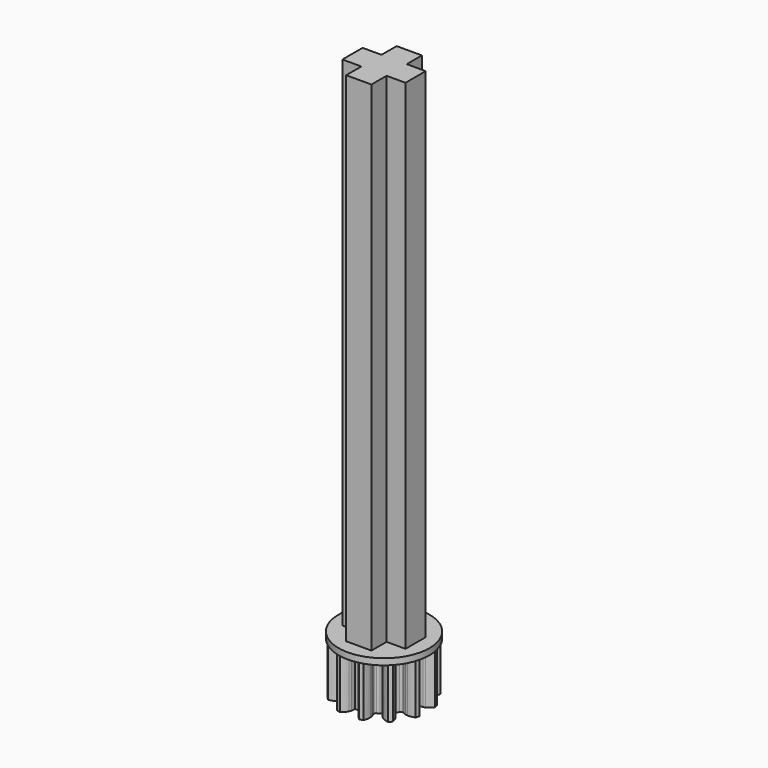
from build123d import *

# Parameters (mm, degrees)
CYLINDER002_R              = 3.6
CYLINDER002_DEPTH          = 0.5
EXTRUDE001_DEPTH           = 4
EXTRUDE001_PLACEMENT_ANGLE = 345
BOX001_W                   = 5
BOX001_H                   = 2
BOX001_DEPTH               = 44
BOX_W                      = 2
BOX_H                      = 5
BOX_DEPTH                  = 44


with BuildPart() as cylinder002:
    # Cylinder002 → Cylinder002 (new body)
    with BuildSketch(Plane(origin=(5, 0, 4), x_dir=(1, 0, 0), z_dir=(0, 0, 1))):
        Circle(CYLINDER002_R)
    extrude(amount=CYLINDER002_DEPTH)


with BuildPart() as fusion001:
    # InvoluteGear001 → Extrude001 (new body)
    with BuildSketch(Plane.XY):
        with BuildLine():
            Line((2.528514, -0.371303), (2.797114, -0.410332))
            add(Edge.make_bspline(
                [(2.797114, -0.410332), (2.817791, -0.411804), (2.879869, -0.41318), (2.984231, -0.389418)],
                knots=[0, 0, 0, 0, 1, 1, 1, 1], degree=3))
            add(Edge.make_bspline(
                [(2.984231, -0.389418), (3.108457, -0.360405), (3.285345, -0.29598), (3.497257, -0.154878)],
                knots=[0, 0, 0, 0, 1, 1, 1, 1], degree=3))
            ThreePointArc((3.497257, -0.154878), (3.500685, 0), (3.497257, 0.154878))
            add(Edge.make_bspline(
                [(3.497257, 0.154878), (3.285345, 0.29598), (3.108457, 0.360405), (2.984231, 0.389418)],
                knots=[0, 0, 0, 0, 1, 1, 1, 1], degree=3))
            add(Edge.make_bspline(
                [(2.984231, 0.389418), (2.879869, 0.41318), (2.817791, 0.411804), (2.797114, 0.410332)],
                knots=[0, 0, 0, 0, 1, 1, 1, 1], degree=3))
            Line((2.797114, 0.410332), (2.528514, 0.371303))
            ThreePointArc((2.528514, 0.371303), (2.395133, 0.402247), (2.318354, 0.515617))
            ThreePointArc((2.318354, 0.515617), (2.294074, 0.614695), (2.265562, 0.712639))
            ThreePointArc((2.265562, 0.712639), (2.27537, 0.849211), (2.375409, 0.9427))
            Line((2.375409, 0.9427), (2.627538, 1.043199))
            add(Edge.make_bspline(
                [(2.627538, 1.043199), (2.646181, 1.052262), (2.700629, 1.08211), (2.779129, 1.154869)],
                knots=[0, 0, 0, 0, 1, 1, 1, 1], degree=3))
            add(Edge.make_bspline(
                [(2.779129, 1.154869), (2.872205, 1.242109), (2.993182, 1.386346), (3.106152, 1.6145)],
                knots=[0, 0, 0, 0, 1, 1, 1, 1], degree=3))
            ThreePointArc((3.106152, 1.6145), (3.031682, 1.750343), (2.951274, 1.882757))
            add(Edge.make_bspline(
                [(2.951274, 1.882757), (2.697202, 1.898999), (2.5118, 1.866348), (2.389711, 1.829362)],
                knots=[0, 0, 0, 0, 1, 1, 1, 1], degree=3))
            add(Edge.make_bspline(
                [(2.389711, 1.829362), (2.28745, 1.797759), (2.234376, 1.765528), (2.217206, 1.753915)],
                knots=[0, 0, 0, 0, 1, 1, 1, 1], degree=3))
            Line((2.217206, 1.753915), (2.004106, 1.585815))
            ThreePointArc((2.004106, 1.585815), (1.873123, 1.545922), (1.749945, 1.605714))
            ThreePointArc((1.749945, 1.605714), (1.679379, 1.679379), (1.605714, 1.749945))
            ThreePointArc((1.605714, 1.749945), (1.545922, 1.873123), (1.585815, 2.004106))
            Line((1.585815, 2.004106), (1.753915, 2.217206))
            add(Edge.make_bspline(
                [(1.753915, 2.217206), (1.765528, 2.234376), (1.797759, 2.28745), (1.829362, 2.389711)],
                knots=[0, 0, 0, 0, 1, 1, 1, 1], degree=3))
            add(Edge.make_bspline(
                [(1.829362, 2.389711), (1.866348, 2.5118), (1.898999, 2.697202), (1.882757, 2.951274)],
                knots=[0, 0, 0, 0, 1, 1, 1, 1], degree=3))
            ThreePointArc((1.882757, 2.951274), (1.750343, 3.031682), (1.6145, 3.106152))
            add(Edge.make_bspline(
                [(1.6145, 3.106152), (1.386346, 2.993182), (1.242109, 2.872205), (1.154869, 2.779129)],
                knots=[0, 0, 0, 0, 1, 1, 1, 1], degree=3))
            add(Edge.make_bspline(
                [(1.154869, 2.779129), (1.08211, 2.700629), (1.052262, 2.646181), (1.043199, 2.627538)],
                knots=[0, 0, 0, 0, 1, 1, 1, 1], degree=3))
            Line((1.043199, 2.627538), (0.9427, 2.375409))
            ThreePointArc((0.9427, 2.375409), (0.849211, 2.27537), (0.712639, 2.265562))
            ThreePointArc((0.712639, 2.265562), (0.614695, 2.294074), (0.515617, 2.318354))
            ThreePointArc((0.515617, 2.318354), (0.402247, 2.395133), (0.371303, 2.528514))
            Line((0.371303, 2.528514), (0.410332, 2.797114))
            add(Edge.make_bspline(
                [(0.410332, 2.797114), (0.411804, 2.817791), (0.41318, 2.879869), (0.389418, 2.984231)],
                knots=[0, 0, 0, 0, 1, 1, 1, 1], degree=3))
            add(Edge.make_bspline(
                [(0.389418, 2.984231), (0.360405, 3.108457), (0.29598, 3.285345), (0.154878, 3.497257)],
                knots=[0, 0, 0, 0, 1, 1, 1, 1], degree=3))
            ThreePointArc((0.154878, 3.497257), (0, 3.500685), (-0.154878, 3.497257))
            add(Edge.make_bspline(
                [(-0.154878, 3.497257), (-0.29598, 3.285345), (-0.360405, 3.108457), (-0.389418, 2.984231)],
                knots=[0, 0, 0, 0, 1, 1, 1, 1], degree=3))
            add(Edge.make_bspline(
                [(-0.389418, 2.984231), (-0.41318, 2.879869), (-0.411804, 2.817791), (-0.410332, 2.797114)],
                knots=[0, 0, 0, 0, 1, 1, 1, 1], degree=3))
            Line((-0.410332, 2.797114), (-0.371303, 2.528514))
            ThreePointArc((-0.371303, 2.528514), (-0.402247, 2.395133), (-0.515617, 2.318354))
            ThreePointArc((-0.515617, 2.318354), (-0.614695, 2.294074), (-0.712639, 2.265562))
            ThreePointArc((-0.712639, 2.265562), (-0.849211, 2.27537), (-0.9427, 2.375409))
            Line((-0.9427, 2.375409), (-1.043199, 2.627538))
            add(Edge.make_bspline(
                [(-1.043199, 2.627538), (-1.052262, 2.646181), (-1.08211, 2.700629), (-1.154869, 2.779129)],
                knots=[0, 0, 0, 0, 1, 1, 1, 1], degree=3))
            add(Edge.make_bspline(
                [(-1.154869, 2.779129), (-1.242109, 2.872205), (-1.386346, 2.993182), (-1.6145, 3.106152)],
                knots=[0, 0, 0, 0, 1, 1, 1, 1], degree=3))
            ThreePointArc((-1.6145, 3.106152), (-1.750343, 3.031682), (-1.882757, 2.951274))
            add(Edge.make_bspline(
                [(-1.882757, 2.951274), (-1.898999, 2.697202), (-1.866348, 2.5118), (-1.829362, 2.389711)],
                knots=[0, 0, 0, 0, 1, 1, 1, 1], degree=3))
            add(Edge.make_bspline(
                [(-1.829362, 2.389711), (-1.797759, 2.28745), (-1.765528, 2.234376), (-1.753915, 2.217206)],
                knots=[0, 0, 0, 0, 1, 1, 1, 1], degree=3))
            Line((-1.753915, 2.217206), (-1.585815, 2.004106))
            ThreePointArc((-1.585815, 2.004106), (-1.545922, 1.873123), (-1.605714, 1.749945))
            ThreePointArc((-1.605714, 1.749945), (-1.679379, 1.679379), (-1.749945, 1.605714))
            ThreePointArc((-1.749945, 1.605714), (-1.873123, 1.545922), (-2.004106, 1.585815))
            Line((-2.004106, 1.585815), (-2.217206, 1.753915))
            add(Edge.make_bspline(
                [(-2.217206, 1.753915), (-2.234376, 1.765528), (-2.28745, 1.797759), (-2.389711, 1.829362)],
                knots=[0, 0, 0, 0, 1, 1, 1, 1], degree=3))
            add(Edge.make_bspline(
                [(-2.389711, 1.829362), (-2.5118, 1.866348), (-2.697202, 1.898999), (-2.951274, 1.882757)],
                knots=[0, 0, 0, 0, 1, 1, 1, 1], degree=3))
            ThreePointArc((-2.951274, 1.882757), (-3.031682, 1.750343), (-3.106152, 1.6145))
            add(Edge.make_bspline(
                [(-3.106152, 1.6145), (-2.993182, 1.386346), (-2.872205, 1.242109), (-2.779129, 1.154869)],
                knots=[0, 0, 0, 0, 1, 1, 1, 1], degree=3))
            add(Edge.make_bspline(
                [(-2.779129, 1.154869), (-2.700629, 1.08211), (-2.646181, 1.052262), (-2.627538, 1.043199)],
                knots=[0, 0, 0, 0, 1, 1, 1, 1], degree=3))
            Line((-2.627538, 1.043199), (-2.375409, 0.9427))
            ThreePointArc((-2.375409, 0.9427), (-2.27537, 0.849211), (-2.265562, 0.712639))
            ThreePointArc((-2.265562, 0.712639), (-2.294074, 0.614695), (-2.318354, 0.515617))
            ThreePointArc((-2.318354, 0.515617), (-2.395133, 0.402247), (-2.528514, 0.371303))
            Line((-2.528514, 0.371303), (-2.797114, 0.410332))
            add(Edge.make_bspline(
                [(-2.797114, 0.410332), (-2.817791, 0.411804), (-2.879869, 0.41318), (-2.984231, 0.389418)],
                knots=[0, 0, 0, 0, 1, 1, 1, 1], degree=3))
            add(Edge.make_bspline(
                [(-2.984231, 0.389418), (-3.108457, 0.360405), (-3.285345, 0.29598), (-3.497257, 0.154878)],
                knots=[0, 0, 0, 0, 1, 1, 1, 1], degree=3))
            ThreePointArc((-3.497257, 0.154878), (-3.500685, 0), (-3.497257, -0.154878))
            add(Edge.make_bspline(
                [(-3.497257, -0.154878), (-3.285345, -0.29598), (-3.108457, -0.360405), (-2.984231, -0.389418)],
                knots=[0, 0, 0, 0, 1, 1, 1, 1], degree=3))
            add(Edge.make_bspline(
                [(-2.984231, -0.389418), (-2.879869, -0.41318), (-2.817791, -0.411804), (-2.797114, -0.410332)],
                knots=[0, 0, 0, 0, 1, 1, 1, 1], degree=3))
            Line((-2.797114, -0.410332), (-2.528514, -0.371303))
            ThreePointArc((-2.528514, -0.371303), (-2.395133, -0.402247), (-2.318354, -0.515617))
            ThreePointArc((-2.318354, -0.515617), (-2.294074, -0.614695), (-2.265562, -0.712639))
            ThreePointArc((-2.265562, -0.712639), (-2.27537, -0.849211), (-2.375409, -0.9427))
            Line((-2.375409, -0.9427), (-2.627538, -1.043199))
            add(Edge.make_bspline(
                [(-2.627538, -1.043199), (-2.646181, -1.052262), (-2.700629, -1.08211), (-2.779129, -1.154869)],
                knots=[0, 0, 0, 0, 1, 1, 1, 1], degree=3))
            add(Edge.make_bspline(
                [(-2.779129, -1.154869), (-2.872205, -1.242109), (-2.993182, -1.386346), (-3.106152, -1.6145)],
                knots=[0, 0, 0, 0, 1, 1, 1, 1], degree=3))
            ThreePointArc((-3.106152, -1.6145), (-3.031682, -1.750343), (-2.951274, -1.882757))
            add(Edge.make_bspline(
                [(-2.951274, -1.882757), (-2.697202, -1.898999), (-2.5118, -1.866348), (-2.389711, -1.829362)],
                knots=[0, 0, 0, 0, 1, 1, 1, 1], degree=3))
            add(Edge.make_bspline(
                [(-2.389711, -1.829362), (-2.28745, -1.797759), (-2.234376, -1.765528), (-2.217206, -1.753915)],
                knots=[0, 0, 0, 0, 1, 1, 1, 1], degree=3))
            Line((-2.217206, -1.753915), (-2.004106, -1.585815))
            ThreePointArc((-2.004106, -1.585815), (-1.873123, -1.545922), (-1.749945, -1.605714))
            ThreePointArc((-1.749945, -1.605714), (-1.679379, -1.679379), (-1.605714, -1.749945))
            ThreePointArc((-1.605714, -1.749945), (-1.545922, -1.873123), (-1.585815, -2.004106))
            Line((-1.585815, -2.004106), (-1.753915, -2.217206))
            add(Edge.make_bspline(
                [(-1.753915, -2.217206), (-1.765528, -2.234376), (-1.797759, -2.28745), (-1.829362, -2.389711)],
                knots=[0, 0, 0, 0, 1, 1, 1, 1], degree=3))
            add(Edge.make_bspline(
                [(-1.829362, -2.389711), (-1.866348, -2.5118), (-1.898999, -2.697202), (-1.882757, -2.951274)],
                knots=[0, 0, 0, 0, 1, 1, 1, 1], degree=3))
            ThreePointArc((-1.882757, -2.951274), (-1.750343, -3.031682), (-1.6145, -3.106152))
            add(Edge.make_bspline(
                [(-1.6145, -3.106152), (-1.386346, -2.993182), (-1.242109, -2.872205), (-1.154869, -2.779129)],
                knots=[0, 0, 0, 0, 1, 1, 1, 1], degree=3))
            add(Edge.make_bspline(
                [(-1.154869, -2.779129), (-1.08211, -2.700629), (-1.052262, -2.646181), (-1.043199, -2.627538)],
                knots=[0, 0, 0, 0, 1, 1, 1, 1], degree=3))
            Line((-1.043199, -2.627538), (-0.9427, -2.375409))
            ThreePointArc((-0.9427, -2.375409), (-0.849211, -2.27537), (-0.712639, -2.265562))
            ThreePointArc((-0.712639, -2.265562), (-0.614695, -2.294074), (-0.515617, -2.318354))
            ThreePointArc((-0.515617, -2.318354), (-0.402247, -2.395133), (-0.371303, -2.528514))
            Line((-0.371303, -2.528514), (-0.410332, -2.797114))
            add(Edge.make_bspline(
                [(-0.410332, -2.797114), (-0.411804, -2.817791), (-0.41318, -2.879869), (-0.389418, -2.984231)],
                knots=[0, 0, 0, 0, 1, 1, 1, 1], degree=3))
            add(Edge.make_bspline(
                [(-0.389418, -2.984231), (-0.360405, -3.108457), (-0.29598, -3.285345), (-0.154878, -3.497257)],
                knots=[0, 0, 0, 0, 1, 1, 1, 1], degree=3))
            ThreePointArc((-0.154878, -3.497257), (0, -3.500685), (0.154878, -3.497257))
            add(Edge.make_bspline(
                [(0.154878, -3.497257), (0.29598, -3.285345), (0.360405, -3.108457), (0.389418, -2.984231)],
                knots=[0, 0, 0, 0, 1, 1, 1, 1], degree=3))
            add(Edge.make_bspline(
                [(0.389418, -2.984231), (0.41318, -2.879869), (0.411804, -2.817791), (0.410332, -2.797114)],
                knots=[0, 0, 0, 0, 1, 1, 1, 1], degree=3))
            Line((0.410332, -2.797114), (0.371303, -2.528514))
            ThreePointArc((0.371303, -2.528514), (0.402247, -2.395133), (0.515617, -2.318354))
            ThreePointArc((0.515617, -2.318354), (0.614695, -2.294074), (0.712639, -2.265562))
            ThreePointArc((0.712639, -2.265562), (0.849211, -2.27537), (0.9427, -2.375409))
            Line((0.9427, -2.375409), (1.043199, -2.627538))
            add(Edge.make_bspline(
                [(1.043199, -2.627538), (1.052262, -2.646181), (1.08211, -2.700629), (1.154869, -2.779129)],
                knots=[0, 0, 0, 0, 1, 1, 1, 1], degree=3))
            add(Edge.make_bspline(
                [(1.154869, -2.779129), (1.242109, -2.872205), (1.386346, -2.993182), (1.6145, -3.106152)],
                knots=[0, 0, 0, 0, 1, 1, 1, 1], degree=3))
            ThreePointArc((1.6145, -3.106152), (1.750343, -3.031682), (1.882757, -2.951274))
            add(Edge.make_bspline(
                [(1.882757, -2.951274), (1.898999, -2.697202), (1.866348, -2.5118), (1.829362, -2.389711)],
                knots=[0, 0, 0, 0, 1, 1, 1, 1], degree=3))
            add(Edge.make_bspline(
                [(1.829362, -2.389711), (1.797759, -2.28745), (1.765528, -2.234376), (1.753915, -2.217206)],
                knots=[0, 0, 0, 0, 1, 1, 1, 1], degree=3))
            Line((1.753915, -2.217206), (1.585815, -2.004106))
            ThreePointArc((1.585815, -2.004106), (1.545922, -1.873123), (1.605714, -1.749945))
            ThreePointArc((1.605714, -1.749945), (1.679379, -1.679379), (1.749945, -1.605714))
            ThreePointArc((1.749945, -1.605714), (1.873123, -1.545922), (2.004106, -1.585815))
            Line((2.004106, -1.585815), (2.217206, -1.753915))
            add(Edge.make_bspline(
                [(2.217206, -1.753915), (2.234376, -1.765528), (2.28745, -1.797759), (2.389711, -1.829362)],
                knots=[0, 0, 0, 0, 1, 1, 1, 1], degree=3))
            add(Edge.make_bspline(
                [(2.389711, -1.829362), (2.5118, -1.866348), (2.697202, -1.898999), (2.951274, -1.882757)],
                knots=[0, 0, 0, 0, 1, 1, 1, 1], degree=3))
            ThreePointArc((2.951274, -1.882757), (3.031682, -1.750343), (3.106152, -1.6145))
            add(Edge.make_bspline(
                [(3.106152, -1.6145), (2.993182, -1.386346), (2.872205, -1.242109), (2.779129, -1.154869)],
                knots=[0, 0, 0, 0, 1, 1, 1, 1], degree=3))
            add(Edge.make_bspline(
                [(2.779129, -1.154869), (2.700629, -1.08211), (2.646181, -1.052262), (2.627538, -1.043199)],
                knots=[0, 0, 0, 0, 1, 1, 1, 1], degree=3))
            Line((2.627538, -1.043199), (2.375409, -0.9427))
            ThreePointArc((2.375409, -0.9427), (2.27537, -0.849211), (2.265562, -0.712639))
            ThreePointArc((2.265562, -0.712639), (2.294074, -0.614695), (2.318354, -0.515617))
            ThreePointArc((2.318354, -0.515617), (2.395133, -0.402247), (2.528514, -0.371303))
        make_face()
    extrude(amount=EXTRUDE001_DEPTH)


with BuildPart() as fusion001_1:
    # Extrude001 placement: moved
    add(fusion001.part.moved(Location((5, 0, 0))).rotate(Axis((5, 0, 0), (0, 0, 1)), EXTRUDE001_PLACEMENT_ANGLE))

    # Fusion001: union Cylinder002
    add(cylinder002.part)


with BuildPart() as cube001:
    # Box001 → Box001 (new body)
    with BuildSketch(Plane(origin=(2.5, -1, 0), x_dir=(1, 0, 0), z_dir=(0, 0, 1))):
        with Locations((2.5, 1)):
            Rectangle(BOX001_W, BOX001_H)
    extrude(amount=BOX001_DEPTH)


with BuildPart() as fusion002:
    # Box → Box (new body)
    with BuildSketch(Plane(origin=(4, -2.5, 0), x_dir=(1, 0, 0), z_dir=(0, 0, 1))):
        with Locations((1, 2.5)):
            Rectangle(BOX_W, BOX_H)
    extrude(amount=BOX_DEPTH)

    # Fusion: union Cube001
    add(cube001.part)

    # Fusion002: union Fusion001
    add(fusion001_1.part)


solid = fusion002.part
